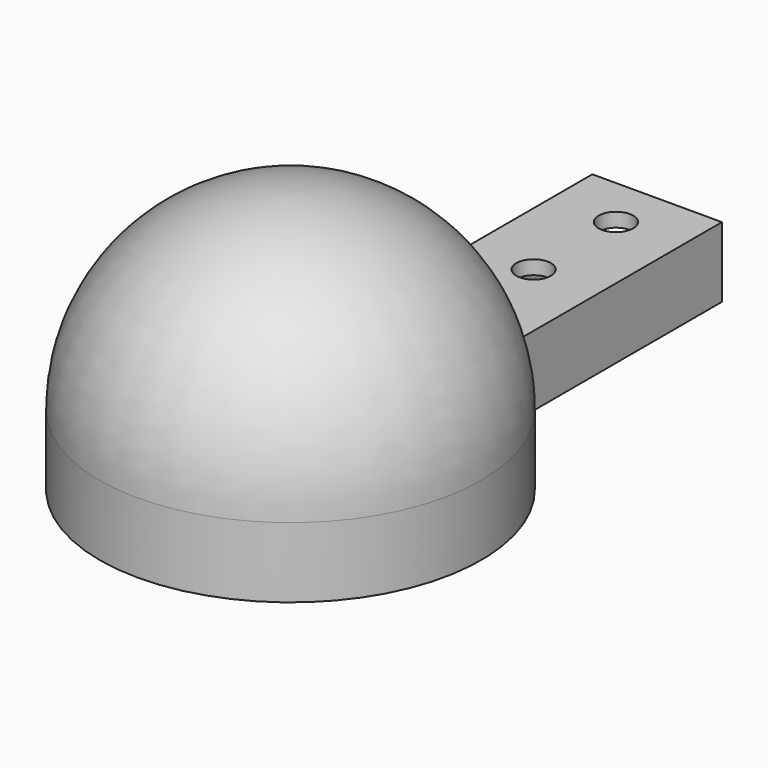
from build123d import *

# Parameters (mm, degrees)
SKETCH001_W      = 19.16
SKETCH001_H      = 49.52
EXTRUDE001_DEPTH = 10.4
SKETCH_W         = 24
SKETCH_H         = 84.875
SKETCH_R         = 3.2
EXTRUDE_DEPTH    = 13
CYLINDER_R       = 35.35
CYLINDER_DEPTH   = 13


with BuildPart() as extrude001:
    # Sketch001 → Extrude001 (new body)
    with BuildSketch(Plane.XY.offset(-13)):
        with Locations((0, 60.115)):
            Rectangle(SKETCH001_W, SKETCH001_H)
    extrude(amount=EXTRUDE001_DEPTH)


with BuildPart() as extrude_body:
    # Sketch → Extrude (new body)
    with BuildSketch(Plane.XY):
        with Locations((0, 42.4375)):
            Rectangle(SKETCH_W, SKETCH_H)
        with Locations((0, 56.295)):
            Circle(SKETCH_R, mode=Mode.SUBTRACT)
        with Locations((0, 75.345)):
            Circle(SKETCH_R, mode=Mode.SUBTRACT)
    extrude(amount=-EXTRUDE_DEPTH)


with BuildPart() as cylinder:
    # Cylinder → Cylinder (new body)
    with BuildSketch(Plane(origin=(0, 0, 0), x_dir=(-1, 0, 0), z_dir=(0, 0, -1))):
        Circle(CYLINDER_R)
    extrude(amount=CYLINDER_DEPTH)


with BuildPart() as obj1:
    # Sphere → Sphere (revolve)
    with BuildSketch(Plane.XZ):
        with BuildLine():
            ThreePointArc((35.35, 0), (24.996225, 24.996225), (0, 35.35))
            Line((0, 35.35), (0, 0))
            Line((0, 0), (35.35, 0))
        make_face()
    revolve(axis=Axis((0, 0, 0), (0, 0, 1)))

    # Fusion: union Extrude body, Cylinder
    add(extrude_body.part)
    add(cylinder.part)

    # Cut: cut Extrude001
    add(extrude001.part, mode=Mode.SUBTRACT)


solid = obj1.part
